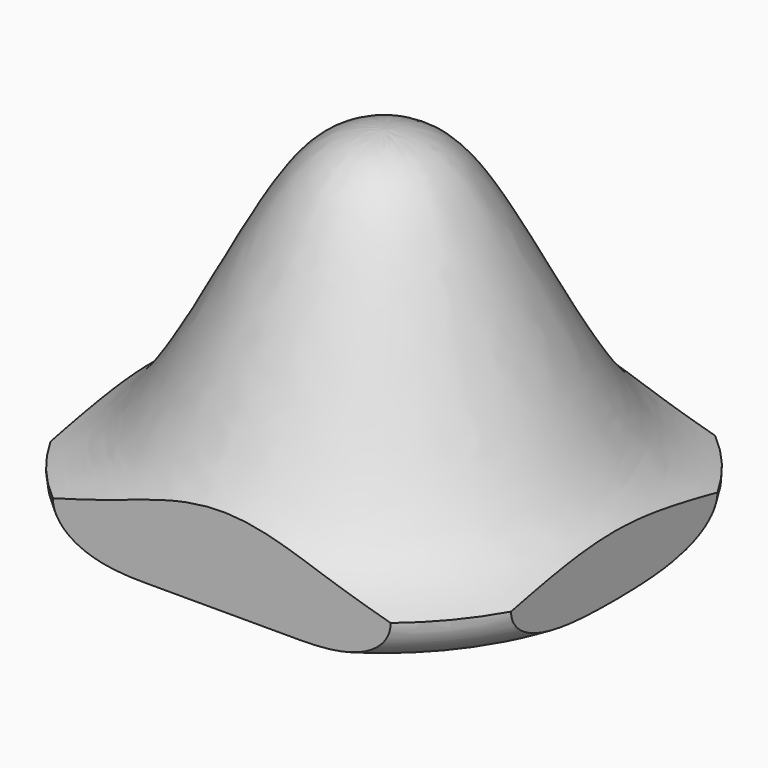
from build123d import *

# Parameters (mm, degrees)
F2_W     = 89.8889824748
F2_H     = 79.1754797101
F3_DEPTH = 66.7117272195


with BuildPart() as f1:
    # F0 (on Front) → F1 (revolve)
    with BuildSketch(Plane.XZ):
        with BuildLine():
            add(Edge.make_bspline(
                [(0, 66.7107271195), (9.0517854526, 66.7107271195), (19.3505076566, 55.3985613272), (36.6112487311, 16.616018995), (46.4496734225, 10.9039233488), (51.5206754208, 8.6853625253)],
                knots=[0, 0, 0, 0, 0.3110329767, 0.7338339106, 1, 1, 1, 1], degree=3))
            Line((0, 66.7107271195), (0, 0))
            Line((0, 0), (42.4307694517, 0))
            add(Edge.make_bspline(
                [(51.5206754208, 8.6853625253), (51.5206754208, 3.9317647509), (47.5208608292, 0), (42.4307694517, 0)],
                knots=[0, 0, 0, 0, 12.5722676046, 12.5722676046, 12.5722676046, 12.5722676046], degree=3))
        make_face()
    revolve(axis=Axis((0, 0, 33.3553635597), (0, 0, -1)))

    # F2 (on Top) → F3 (intersect, through all)
    with BuildSketch(Plane.XY):
        Rectangle(F2_W, F2_H)
    extrude(amount=F3_DEPTH, mode=Mode.INTERSECT)


solid = f1.part
